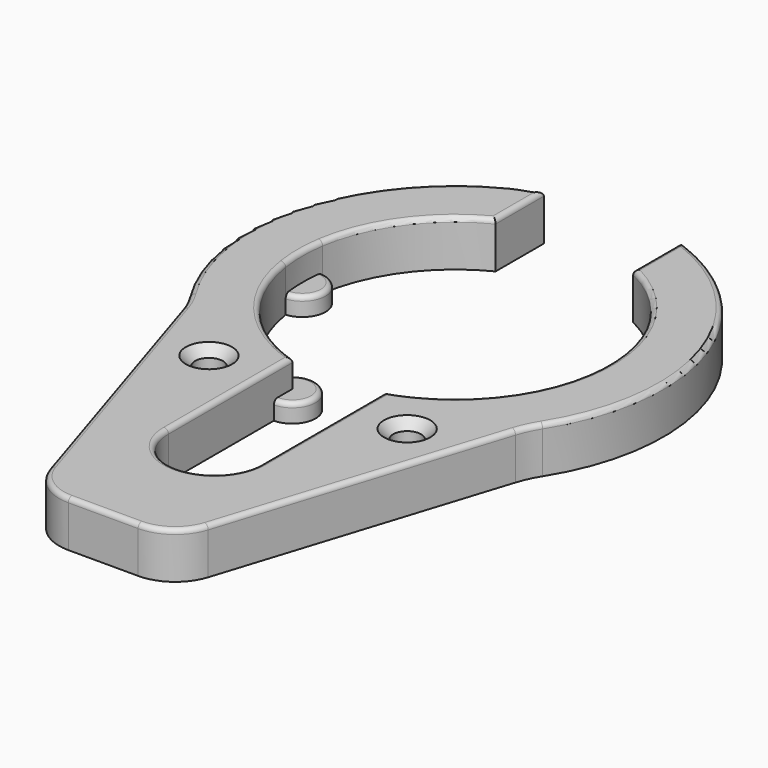
from build123d import *

# Parameters (mm, degrees)
F0_R     = 1.5
F1_DEPTH = 5
F2_DEPTH = 2
F3_R     = 0.5
F4_SIZE  = 1


with BuildPart() as f1:
    # F0 (on Top) → F1 (new body)
    with BuildSketch(Plane.XY):
        with BuildLine():
            ThreePointArc((-16.310606, 2.492816), (-13.354235, 9.690944), (-7.427648, 14.733637))
            Line((-7.427648, 14.733637), (-7.427648, 21.238645))
            ThreePointArc((-7.427648, 21.238645), (-21.242723, 7.415977), (-19.031975, -12.001414))
            ThreePointArc((-19.031975, -12.001414), (-18.421664, -13.121843), (-17.958982, -14.310863))
            Line((-17.958982, -14.310863), (-8.534353, -44.012256))
            ThreePointArc((-8.534353, -44.012256), (-6.721385, -46.534928), (-3.768529, -47.5))
            Line((-3.768529, -47.5), (3.768529, -47.5))
            ThreePointArc((3.768529, -47.5), (6.721385, -46.534928), (8.534353, -44.012256))
            Line((8.534353, -44.012256), (17.958982, -14.310863))
            ThreePointArc((17.958982, -14.310863), (18.421664, -13.121843), (19.031975, -12.001414))
            ThreePointArc((19.031975, -12.001414), (21.242723, 7.415977), (7.427648, 21.238645))
            Line((7.427648, 21.238645), (7.427648, 14.733637))
            ThreePointArc((7.427648, 14.733637), (13.354235, 9.690944), (16.310606, 2.492816))
            ThreePointArc((16.310606, 2.492816), (16.5, 0), (16.310606, -2.492816))
            ThreePointArc((16.310606, -2.492816), (13.318221, -9.74038), (7.318214, -14.788298))
            ThreePointArc((7.318214, -14.788298), (6.176857, -15.30021), (5, -15.724185))
            Line((5, -15.724185), (5, -18.224185))
            Line((5, -18.224185), (5, -32.5))
            ThreePointArc((5, -32.5), (-0.025034, -37.499937), (-4.999749, -32.449932))
            Line((-4.999749, -32.449932), (-4.999749, -18.224265))
            Line((-4.999749, -18.224265), (-4.999749, -15.724265))
            ThreePointArc((-4.999749, -15.724265), (-6.176614, -15.300309), (-7.317978, -14.788414))
            ThreePointArc((-7.317978, -14.788414), (-13.318143, -9.740486), (-16.310606, -2.492816))
            ThreePointArc((-16.310606, -2.492816), (-16.5, 0), (-16.310606, 2.492816))
        make_face()
        with Locations((-10.696968, -19.858146)):
            Circle(F0_R, mode=Mode.SUBTRACT)
        with Locations((10.696968, -19.858146)):
            Circle(F0_R, mode=Mode.SUBTRACT)
    extrude(amount=F1_DEPTH)

    # F0 (on Top) → F2 (join)
    with BuildSketch(Plane.XY):
        with BuildLine():
            ThreePointArc((-16.310606, -2.492816), (-14, 0), (-16.310606, 2.492816))
            ThreePointArc((-16.310606, 2.492816), (-16.5, 0), (-16.310606, -2.492816))
        make_face()
        with BuildLine():
            ThreePointArc((16.310606, 2.492816), (14, 0), (16.310606, -2.492816))
            ThreePointArc((16.310606, -2.492816), (16.5, 0), (16.310606, 2.492816))
        make_face()
        with BuildLine():
            ThreePointArc((-4.999749, -18.224265), (-2.927356, -14.325985), (-7.317978, -14.788414))
            ThreePointArc((-7.317978, -14.788414), (-6.176614, -15.300309), (-4.999749, -15.724265))
            Line((-4.999749, -15.724265), (-4.999749, -18.224265))
        make_face()
        with BuildLine():
            ThreePointArc((7.318214, -14.788298), (2.927596, -14.325922), (5, -18.224185))
            Line((5, -18.224185), (5, -15.724185))
            ThreePointArc((5, -15.724185), (6.176857, -15.30021), (7.318214, -14.788298))
        make_face()
    extrude(amount=F2_DEPTH)

    # F3
    f3_edges = [f1.edges().sort_by_distance(p)[0] for p in [
        (-21.242723, 7.415977, 5),
        (-4.999749, -24.087098, 5),
        (5, -24.112093, 5),
        (-14, 0, 2),
        (14, 0, 2),
        (-7.427648, 17.986141, 5),
        (7.427648, 17.986141, 5),
        (-2.927356, -14.325985, 2),
        (2.927596, -14.325922, 2),
        (-16.447826, -1.31111, 5),
        (16.447837, -1.310979, 5),
    ]]
    fillet(f3_edges, radius=F3_R)

    # F4
    f4_edges = [f1.edges().sort_by_distance(p)[0] for p in [
        (-12.196968, -19.858146, 5),
        (9.196968, -19.858146, 5),
    ]]
    chamfer(f4_edges, length=F4_SIZE)


solid = f1.part
